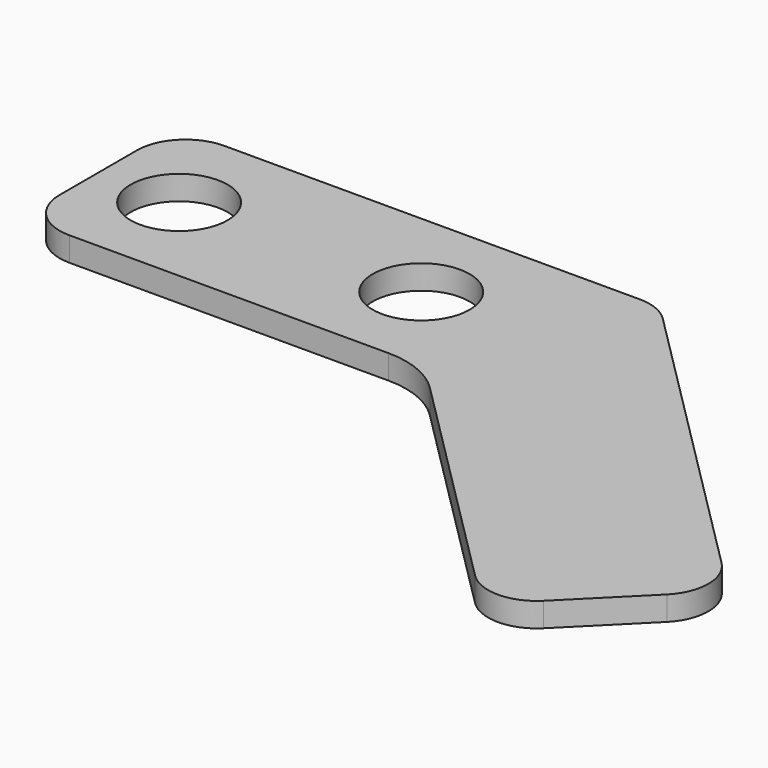
from build123d import *

# Parameters (mm, degrees)
F0_R     = 6.35
F1_DEPTH = 3.175


with BuildPart() as f1:
    # F0 (on Top) → F1 (new body)
    with BuildSketch(Plane.XY):
        with BuildLine():
            Line((50.245686, -33.959337), (59.226047, -24.978976))
            ThreePointArc((59.226047, -24.978976), (61.085919, -20.48891), (59.226135, -15.998808))
            Line((59.226135, -15.998808), (20.675575, 22.553266))
            ThreePointArc((20.675575, 22.553266), (18.615456, 23.929837), (16.185359, 24.413226))
            Line((16.185359, 24.413226), (-38.334312, 24.413226))
            ThreePointArc((-38.334312, 24.413226), (-42.82444, 22.553354), (-44.684312, 18.063226))
            Line((-44.684312, 18.063226), (-44.684312, 11.716822))
            Line((-44.684312, 11.716822), (-44.684312, 5.363226))
            ThreePointArc((-44.684312, 5.363226), (-42.82444, 0.873098), (-38.334312, -0.986774))
            Line((-38.334312, -0.986774), (3.558176, -0.986774))
            ThreePointArc((3.558176, -0.986774), (7.932227, -1.856822), (11.640375, -4.334512))
            Line((11.640375, -4.334512), (41.265447, -33.959355))
            ThreePointArc((41.265447, -33.959355), (45.75557, -35.819209), (50.245686, -33.959337))
        make_face()
        with Locations((-34.088506, 11.716822)):
            Circle(F0_R, mode=Mode.SUBTRACT)
        with Locations((-2.338506, 11.716822)):
            Circle(F0_R, mode=Mode.SUBTRACT)
    extrude(amount=F1_DEPTH)


solid = f1.part
